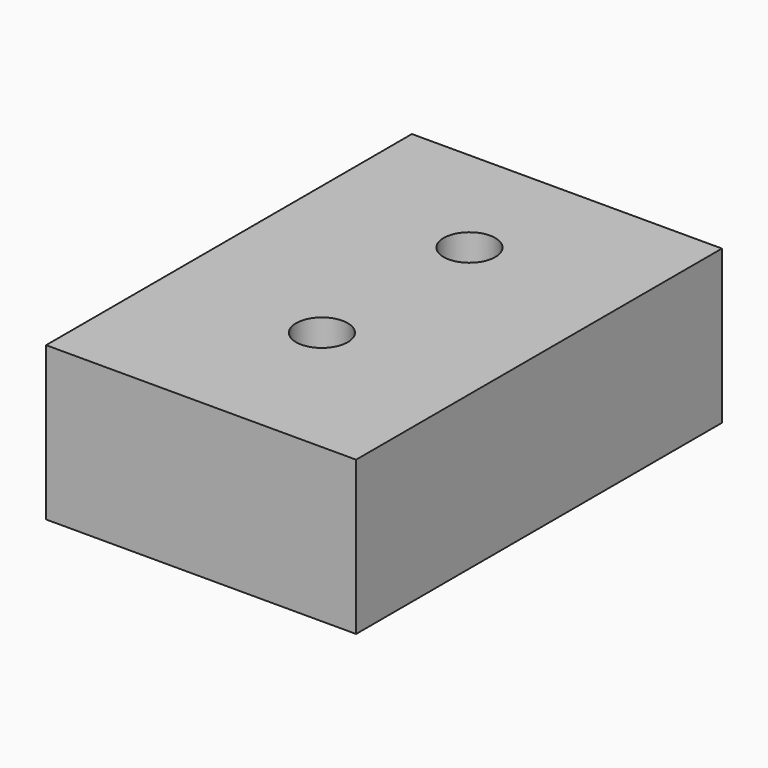
from build123d import *

# Parameters (mm, degrees)
F0_W     = 30
F0_H     = 14.85
F1_DEPTH = 44.25
F3_D     = 5


with BuildPart() as f1:
    # F0 (on Front) → F1 (new body)
    with BuildSketch(Plane.XZ):
        with Locations((15, 7.425)):
            Rectangle(F0_W, F0_H)
    extrude(amount=F1_DEPTH)

    # F3 (through all)
    with Locations(Plane.XY.offset(14.85)):
        with Locations((15, -11.7856515571), (15, -29.6356515571)):
            Hole(F3_D / 2)


solid = f1.part
